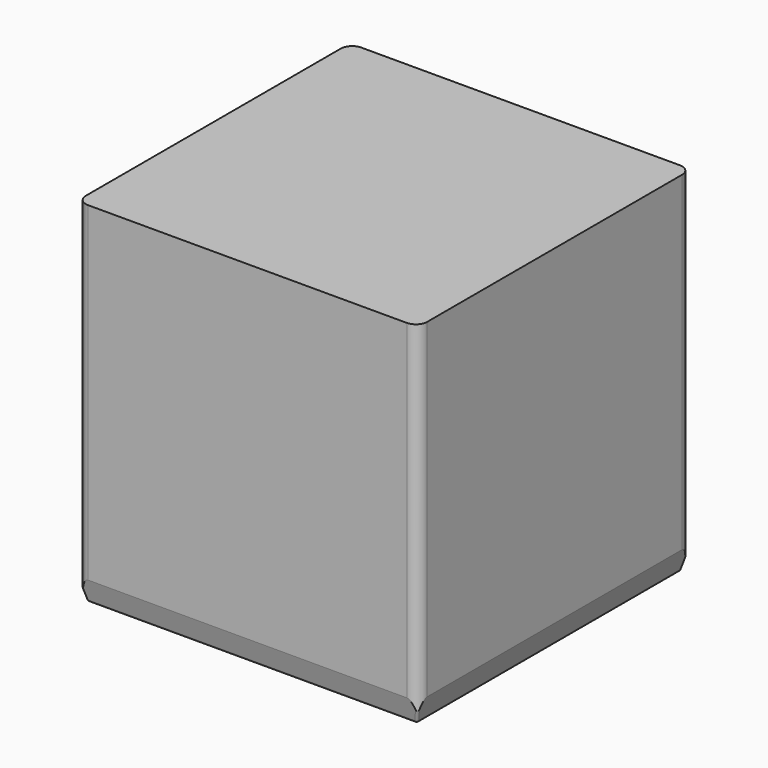
from build123d import *

# Parameters (mm, degrees)
F0_W     = 150
F0_H     = 150
F1_DEPTH = 140
F2_W     = 150
F2_H     = 150
F3_DEPTH = 15
F4_SIZE2 = 10
F4_SIZE  = 2.5
F5_R     = 1
F6_R     = 5


with BuildPart() as f1:
    # F0 (on Top) → F1 (new body)
    with BuildSketch(Plane.XY):
        with Locations((-75, 75)):
            Rectangle(F0_W, F0_H)
    extrude(amount=F1_DEPTH)

    # F2 (on face) → F3 (join)
    with BuildSketch(Plane(origin=(0, 0, 0), x_dir=(1, 0, 0), z_dir=(0, 0, -1))):
        with Locations((-75, -75)):
            Rectangle(F2_W, F2_H)
    extrude(amount=F3_DEPTH)

    # F4
    f4_edges = [f1.edges().sort_by_distance(p)[0] for p in [
        (0, 75, -15),
        (-75, 0, -15),
        (-150, 75, -15),
        (-75, 150, -15),
    ]]
    f4_side = f1.faces().sort_by_distance((-75, 75, -15))[0]
    chamfer(f4_edges, length=F4_SIZE, length2=F4_SIZE2, reference=f4_side)

    # F5
    f5_edges = [f1.edges().sort_by_distance(p)[0] for p in [
        (-1.25, 1.25, -10),
        (-148.75, 1.25, -10),
        (-148.75, 148.75, -10),
        (-1.25, 148.75, -10),
        (-2.5, 75, -15),
        (-75, 147.5, -15),
        (-75, 2.5, -15),
        (-147.5, 75, -15),
    ]]
    fillet(f5_edges, radius=F5_R)

    # F6
    f6_edges = [f1.edges().sort_by_distance(p)[0] for p in [
        (0, 0, 68.061553),
        (-150, 0, 68.061553),
        (-150, 150, 68.061553),
        (0, 150, 68.061553),
    ]]
    fillet(f6_edges, radius=F6_R)


solid = f1.part
